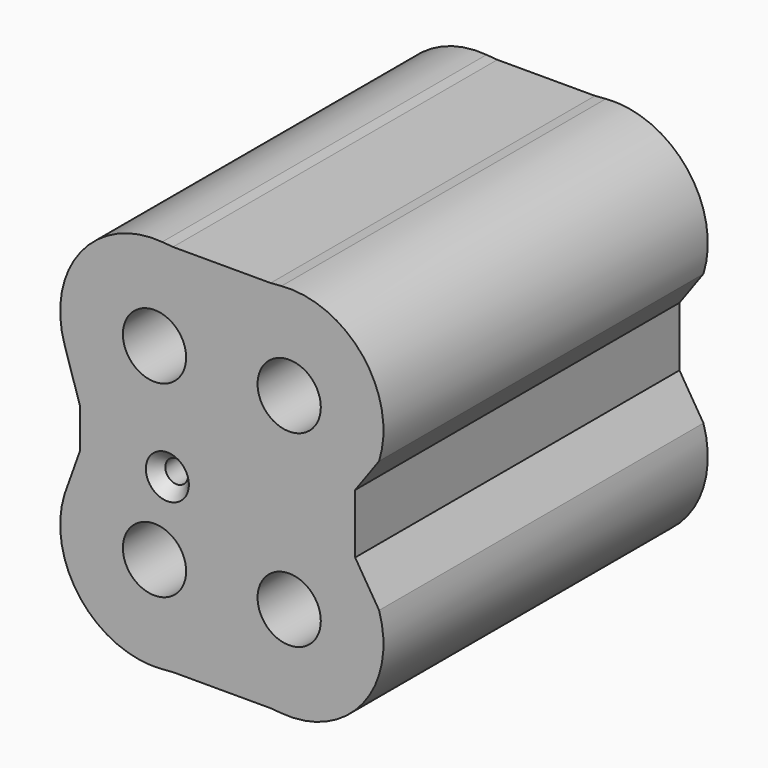
from build123d import *

# Parameters (mm, degrees)
F0_R           = 9.9100368187
F1_DEPTH       = 63.5
F3_D           = 7.1374
F3_CSINK_D     = 13.4874
F3_CSINK_ANGLE = 82


with BuildPart() as f1:
    # F0 (on Front) → F1 (new body, symmetric)
    with BuildSketch(Plane.XZ):
        with BuildLine():
            ThreePointArc((-18.6942840369, 58.9132692288), (-44.1914269778, 47.8887240341), (-49.2648556828, 20.5774586648))
            Line((-49.2648556828, 20.5774586648), (-44.4231033325, 5.2431539955))
            Line((-44.4231033325, 5.2431539955), (-44.4231033325, -7.0205447264))
            Line((-44.4231033325, -7.0205447264), (-49.2648556828, -20.5774586648))
            ThreePointArc((-49.2648556828, -20.5774586648), (-44.1914269778, -47.8887240341), (-18.6942840369, -58.9132692288))
            Line((-18.6942840369, -58.9132692288), (-15.292629838, -58.6357563734))
            Line((-15.292629838, -58.6357563734), (0, -58.6357563734))
            Line((0, -58.6357563734), (15.292629838, -58.6357563734))
            Line((15.292629838, -58.6357563734), (18.6942840369, -58.9132692288))
            ThreePointArc((18.6942840369, -58.9132692288), (44.1914269778, -47.8887240341), (49.2648556828, -20.5774586648))
            Line((49.2648556828, -20.5774586648), (41.760135442, -8.4544469095))
            Line((41.760135442, -8.4544469095), (41.760135442, 10.1676862687))
            Line((41.760135442, 10.1676862687), (49.2648556828, 20.5774586648))
            ThreePointArc((49.2648556828, 20.5774586648), (44.1914269778, 47.8887240341), (18.6942840369, 58.9132692288))
            Line((18.6942840369, 58.9132692288), (15.292629838, 58.6357563734))
            Line((15.292629838, 58.6357563734), (0, 58.6357563734))
            Line((0, 58.6357563734), (-15.292629838, 58.6357563734))
            Line((-15.292629838, 58.6357563734), (-18.6942840369, 58.9132692288))
        make_face()
        with Locations((-21.0961851794, -29.4716165388)):
            Circle(F0_R, mode=Mode.SUBTRACT)
        with Locations((21.0961851794, -29.4716165388)):
            Circle(F0_R, mode=Mode.SUBTRACT)
        with Locations((-21.0961851794, 29.4716165388)):
            Circle(F0_R, mode=Mode.SUBTRACT)
        with Locations((21.0961851794, 29.4716165388)):
            Circle(F0_R, mode=Mode.SUBTRACT)
    extrude(amount=F1_DEPTH, both=True)

    # F3 (through all)
    with Locations(Plane.XZ.offset(63.5)):
        with Locations((-17.0671865344, -5.3259306587)):
            CounterSinkHole(F3_D / 2, F3_CSINK_D / 2, counter_sink_angle=F3_CSINK_ANGLE)


solid = f1.part
